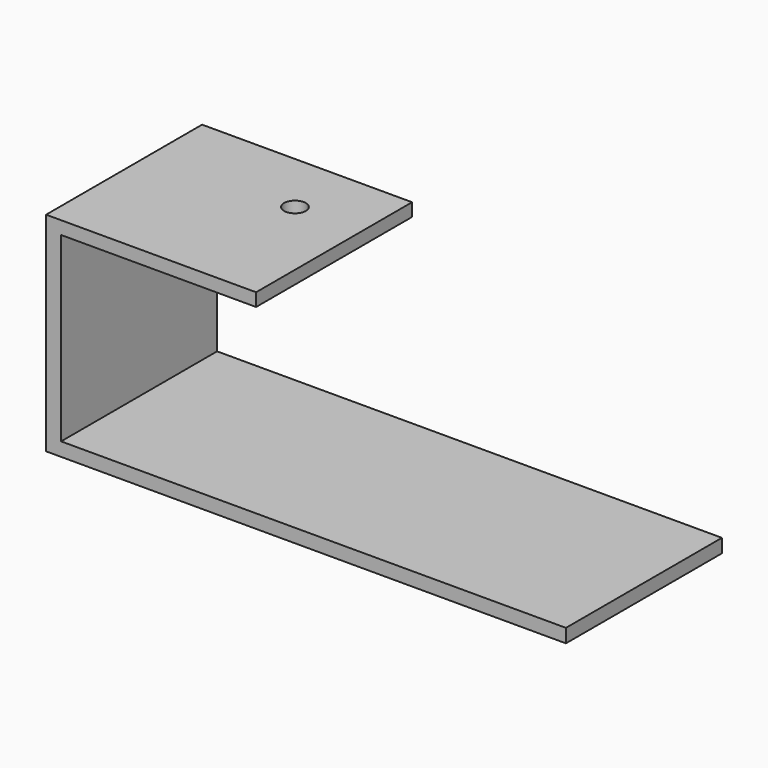
from build123d import *

# Parameters (mm, degrees)
F0_W     = 45
F0_H     = 3
F1_DEPTH = 45
F3_D     = 5
F3_DEPTH = 12


with BuildPart() as f1:
    # F0 (on Front) → F1 (new body)
    with BuildSketch(Plane.XZ):
        with Locations((-25.3491, 23.015767)):
            Rectangle(F0_W, F0_H)
        Polygon((-51.317569, -23.56982), (68.659909, -23.56982), (68.659909, -20.416668), (-47.8491, -20.416668), (-51.317569, -20.416668), align=None)
        Polygon((-51.317569, 24.515767), (-51.317569, -20.416668), (-47.8491, -20.416668), (-47.8491, 21.515767), (-47.8491, 24.515767), align=None)
    extrude(amount=F1_DEPTH)

    # F3
    with Locations(Plane.XY.offset(24.515767)):
        with Locations((-18.169364, -14.63828)):
            Hole(F3_D / 2, depth=F3_DEPTH)


solid = f1.part
